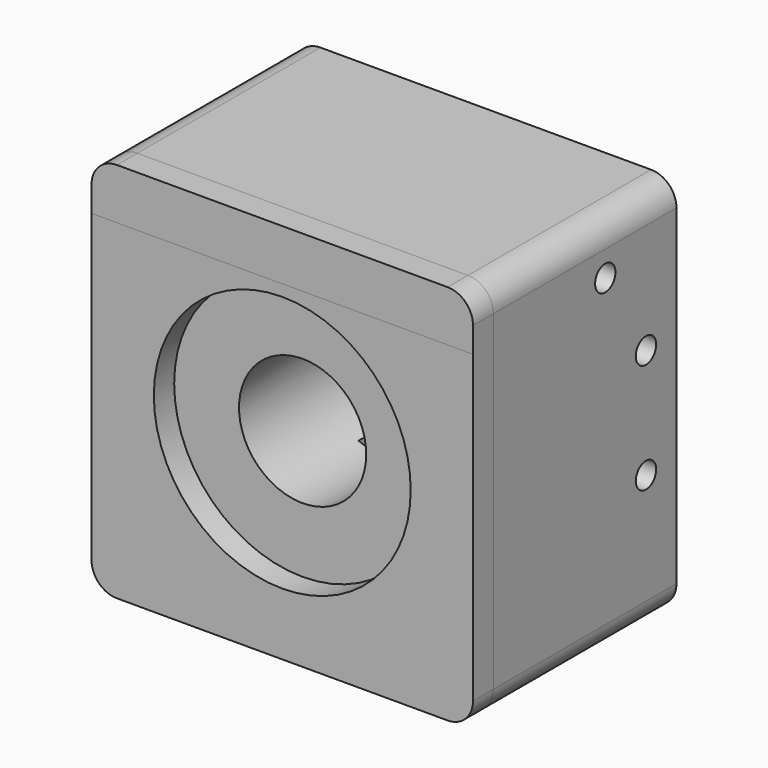
from build123d import *

# Parameters (mm, degrees)
F0_W      = 75
F0_H      = 75
F1_DEPTH  = 45
F2_R      = 5
F3_R      = 12.5
F4_DEPTH  = 25
F7_DEPTH  = 25
F9_DEPTH  = 75.001
F10_DEPTH = 25
F11_R     = 2.5
F12_DEPTH = 75.001
F13_DEPTH = 25
F14_DEPTH = 20


with BuildPart() as f1:
    # F0 (on Front) → F1 (new body)
    with BuildSketch(Plane.XZ):
        with Locations((7.8840382397, -17.0557253063)):
            Rectangle(F0_W, F0_H)
    extrude(amount=F1_DEPTH)

    # F2
    f2_edges = [f1.edges().sort_by_distance(p)[0] for p in [
        (-29.615962, -22.5, 20.444275),
        (-29.615962, -22.5, -54.555725),
        (45.384038, -22.5, -54.555725),
        (45.384038, -22.5, 20.444275),
    ]]
    fillet(f2_edges, radius=F2_R)

    # F3 (on face) → F4 (cut)
    with BuildSketch(Plane.XZ.offset(45)):
        with Locations((7.8840382397, -17.0557253063)):
            Circle(F3_R)
    extrude(amount=-F4_DEPTH, mode=Mode.SUBTRACT)

    # F6 (on face) → F7 (cut)
    with BuildSketch(Plane.XZ):
        Polygon((12.8703957796, 0.5023097037), (2.8703957796, 0.4370668321), (2.8703957796, -54.635066539), (12.8703957796, -54.635066539), align=None)
    extrude(amount=F7_DEPTH, mode=Mode.SUBTRACT)

    # F8 (on face) → F9 (cut, through all)
    with BuildSketch(Plane(origin=(-29.6159617603, 0, 0), x_dir=(0, -1, 0), z_dir=(-1, 0, 0))):
        with BuildLine():
            ThreePointArc((10, -27.7557253063), (7.5, -25.2557253063), (5, -27.7557253063))
            ThreePointArc((5, -27.7557253063), (7.5, -30.2557253063), (10, -27.7557253063))
        make_face()
        with BuildLine():
            ThreePointArc((10, -6.1557253063), (7.5, -3.6557253063), (5, -6.1557253063))
            ThreePointArc((5, -6.1557253063), (7.5, -8.6557253063), (10, -6.1557253063))
        make_face()
    extrude(amount=-F9_DEPTH, mode=Mode.SUBTRACT)

    # F10 (add): a face of the model
    f10_faces = [f1.faces().sort_by_distance(p)[0] for p in [
        (44.3233780679, -45, -17.0557253063),
    ]]
    extrude(f10_faces, amount=F10_DEPTH)

    # F11 (on face) → F12 (cut, through all)
    with BuildSketch(Plane(origin=(-29.6159617603, 0, 0), x_dir=(0, -1, 0), z_dir=(-1, 0, 0))):
        with BuildLine():
            ThreePointArc((55, 10.4442746937), (54.267766953, 12.2120416467), (52.5, 12.9442746937))
            Line((52.5, 12.9442746937), (52.5, 10.4442746937))
            Line((52.5, 10.4442746937), (50, 10.4442746937))
            ThreePointArc((50, 10.4442746937), (52.5, 7.9442746937), (55, 10.4442746937))
        make_face()
        with Locations((17.5, 10.4442746937)):
            Circle(F11_R)
        with BuildLine():
            Line((52.5, 10.4442746937), (52.5, 12.9442746937))
            ThreePointArc((52.5, 12.9442746937), (50.732233047, 12.2120416467), (50, 10.4442746937))
            Line((50, 10.4442746937), (52.5, 10.4442746937))
        make_face()
    extrude(amount=-F12_DEPTH, mode=Mode.SUBTRACT)

    # F5 (on face) → F13 (cut)
    with BuildSketch(Plane.XZ.offset(45)):
        with BuildLine():
            ThreePointArc((7.8840382397, 8.1942746937), (-9.9704079852, -34.9101715312), (33.1340382397, -17.0557253063))
            ThreePointArc((33.1340382397, -17.0557253063), (25.7384844647, 0.7987209187), (7.8840382397, 8.1942746937))
        make_face()
    extrude(amount=F13_DEPTH, mode=Mode.SUBTRACT)

    # F14 (cut): a face of the model
    f14_faces = [f1.faces().sort_by_distance(p)[0] for p in [
        (44.3233780679, -70, -17.0557253063),
    ]]
    extrude(f14_faces, amount=-F14_DEPTH, mode=Mode.SUBTRACT)


solid = f1.part
